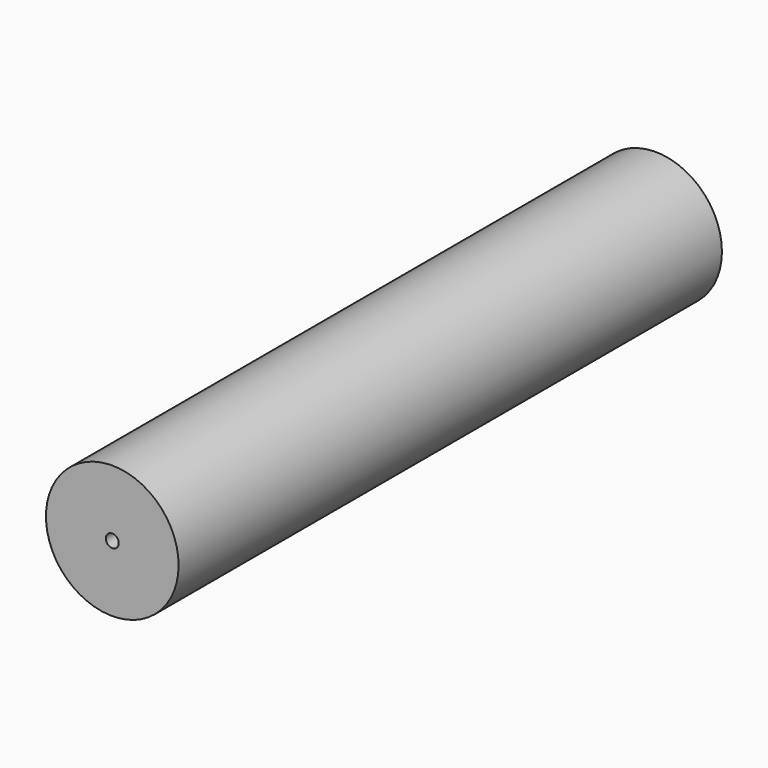
from build123d import *

# Parameters (mm, degrees)
F0_R     = 15.875
F1_DEPTH = 162.56
F2_R     = 1.5494
F3_DEPTH = 142.367
F4_SIZE2 = 1.5494
F4_SIZE  = 0.8945465071


with BuildPart() as f1:
    # F0 (on Front) → F1 (new body)
    with BuildSketch(Plane.XZ):
        Circle(F0_R)
    extrude(amount=-F1_DEPTH)

    # F2 (on Front) → F3 (cut)
    with BuildSketch(Plane.XZ):
        Circle(F2_R)
    extrude(amount=-F3_DEPTH, mode=Mode.SUBTRACT)

    # F4
    f4_edges = [f1.edges().sort_by_distance(p)[0] for p in [
        (-1.5494, 142.367, 0),
    ]]
    f4_side = f1.faces().sort_by_distance((-1.5494, 71.1835, 0))[0]
    chamfer(f4_edges, length=F4_SIZE, length2=F4_SIZE2, reference=f4_side)


solid = f1.part
